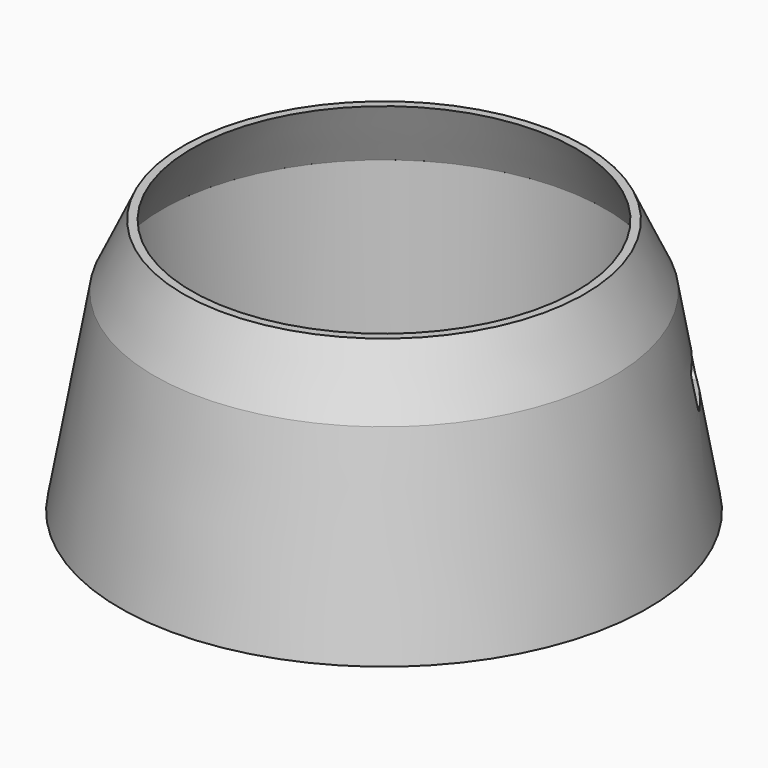
from build123d import *

# Parameters (mm, degrees)
SKETCH024_R             = 2.1
POCKET008_DEPTH         = 8
POCKET015_DEPTH         = 14
BODY002_PLACEMENT_ANGLE = 325.1


with BuildPart() as part:
    # Sketch006 → Revolution001 (revolve)
    with BuildSketch(Plane.XZ):
        Polygon((37.6, 25), (39.2, 25), (44.894981, 12.787073), (51.557862, -25), (49.957862, -25), (49.252554, -21), (43.294981, -21), (43.294981, 12.787073), align=None)
    revolve(axis=Axis((0, 0, 0), (0, 0, 1)))

    # Sketch011 → AdditiveLoft section 0
    with BuildSketch(Plane.XY.offset(14)):
        with BuildLine():
            ThreePointArc((42.6105, 5.774535), (38.773466, 1.434698), (42.920734, -2.609704))
            ThreePointArc((42.920734, -2.609704), (42.970593, 1.59), (42.6105, 5.774535))
        make_face()
    # Sketch012 → AdditiveLoft section 1
    with BuildSketch(Plane(origin=(0, 1, 22), x_dir=(1, 0, 0), z_dir=(0, 0, 1))):
        with BuildLine():
            ThreePointArc((39.836792, 3.609708), (38.556329, 0.532049), (39.921227, -2.509107))
            ThreePointArc((39.921227, -2.509107), (39.996192, 0.551918), (39.836792, 3.609708))
        make_face()
    loft()

    # Sketch024 (on Face9 of AdditiveLoft) → Pocket008 (cut)
    with BuildSketch(Plane(origin=(0, 0, -21), x_dir=(1, 0, 0), z_dir=(0, 0, -1))):
        with Locations((-23.25, 40.270181)):
            Circle(SKETCH024_R)
        with Locations((46.5, 0)):
            Circle(SKETCH024_R)
        with Locations((-23.25, -40.270181)):
            Circle(SKETCH024_R)
    extrude(amount=-POCKET008_DEPTH, mode=Mode.SUBTRACT)

    # Sketch035 (on DatumPlane) → Pocket015 (cut)
    with BuildSketch(Plane(origin=(0, 194, 0), x_dir=(-0.258819, 0.965926, 0), z_dir=(0.965926, 0.258819, 0))):
        with BuildLine():
            ThreePointArc((-199.968301, 0.958611), (-200.675408, 0.665718), (-200.968301, -0.041389))
            Line((-200.968301, -5.041389), (-200.968301, -0.041389))
            ThreePointArc((-200.968301, -5.041389), (-200.675408, -5.748496), (-199.968301, -6.041389))
            Line((-189.968301, -6.041389), (-199.968301, -6.041389))
            ThreePointArc((-189.968301, -6.041389), (-189.261194, -5.748496), (-188.968301, -5.041389))
            Line((-188.968301, -0.041389), (-188.968301, -5.041389))
            ThreePointArc((-188.968301, -0.041389), (-189.261194, 0.665718), (-189.968301, 0.958611))
            Line((-199.968301, 0.958611), (-189.968301, 0.958611))
        make_face()
    extrude(amount=-POCKET015_DEPTH, mode=Mode.SUBTRACT)


with BuildPart() as part_1:
    # Body002 placement: moved
    add(part.part.rotate(Axis((0, 0, 0), (0, 0, -1)), BODY002_PLACEMENT_ANGLE))


solid = part_1.part
